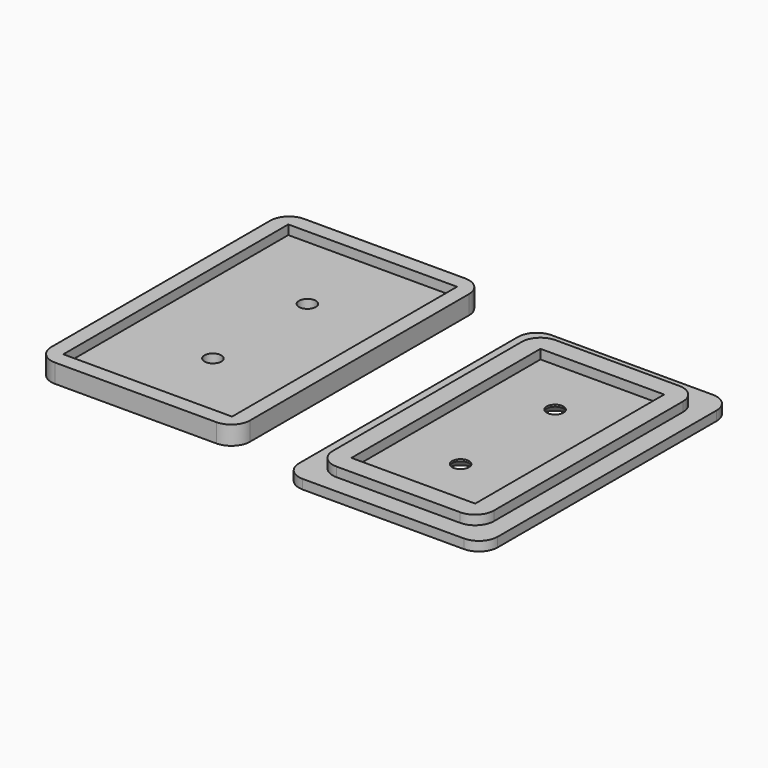
from build123d import *

# Parameters (mm, degrees)
F0_W     = 43
F0_H     = 73
F0_W_2   = 32.9999975562
F0_H_2   = 62.9999975562
F1_DEPTH = 5
F0_W_3   = 53
F0_H_3   = 83
F0_W_4   = 45
F0_H_4   = 75
F0_W_5   = 53.0000032187
F0_H_5   = 83.0000032187
F0_R     = 2.25
F2_DEPTH = 2.5
F3_R     = 5
F3_2_R   = 5
F4_SIZE  = 2
F5_DEPTH = 2.5


with BuildPart() as f1:
    # F0 (on Top) → F1 (new body)
    with BuildSketch(Plane.XY):
        with Locations((21.5, 36.5)):
            Rectangle(F0_W, F0_H)
        with Locations((21.5, 36.5)):
            Rectangle(F0_W_2, F0_H_2, mode=Mode.SUBTRACT)
    extrude(amount=F1_DEPTH)

    # F0 (on Top) → F2 (join)
    with BuildSketch(Plane.XY):
        with Locations((21.5, 36.5)):
            Rectangle(F0_W_5, F0_H_5)
        with Locations((21.5, 36.5)):
            Rectangle(F0_W, F0_H, mode=Mode.SUBTRACT)
        with Locations((21.5, 36.5)):
            Rectangle(F0_W_2, F0_H_2)
        with Locations((21.5, 20.7500006109)):
            Circle(F0_R, mode=Mode.SUBTRACT)
        with Locations((21.5, 52.2499993891)):
            Circle(F0_R, mode=Mode.SUBTRACT)
    extrude(amount=F2_DEPTH)

    # F3
    f3_edges = [f1.edges().sort_by_distance(p)[0] for p in [
        (-5.000002, 78.000002, 1.25),
        (0, 73, 3.75),
        (43, 73, 3.75),
        (48.000002, 78.000002, 1.25),
        (-5.000002, -5.000002, 1.25),
        (0, 0, 3.75),
        (48.000002, -5.000002, 1.25),
        (43, 0, 3.75),
    ]]
    fillet(f3_edges, radius=F3_R)

    # F4
    f4_edges = [f1.edges().sort_by_distance(p)[0] for p in [
        (19.25, 52.249999, 0),
        (19.25, 20.750001, 0),
    ]]
    chamfer(f4_edges, length=F4_SIZE)


with BuildPart() as f1b:
    # F0 (on Top) → F1, piece 2 (new body)
    with BuildSketch(Plane.XY):
        with Locations((-48.5440433621, 41.5)):
            Rectangle(F0_W_3, F0_H_3)
        with Locations((-48.5440433621, 41.5)):
            Rectangle(F0_W_4, F0_H_4, mode=Mode.SUBTRACT)
    extrude(amount=F1_DEPTH)

    # F3#2
    f3_2_edges = [f1b.edges().sort_by_distance(p)[0] for p in [
        (-75.044043, 83, 2.5),
        (-22.044043, 83, 2.5),
        (-75.044043, 0, 2.5),
        (-22.044043, 0, 2.5),
    ]]
    fillet(f3_2_edges, radius=F3_2_R)

    # F0 (on Top) → F5 (join)
    with BuildSketch(Plane.XY):
        with Locations((-48.5440433621, 41.5)):
            Rectangle(F0_W_4, F0_H_4)
        with Locations((-48.5440433621, 25.75)):
            Circle(F0_R, mode=Mode.SUBTRACT)
        with Locations((-48.5440433621, 57.25)):
            Circle(F0_R, mode=Mode.SUBTRACT)
    extrude(amount=F5_DEPTH)


solid = Compound([f1.part, f1b.part])
